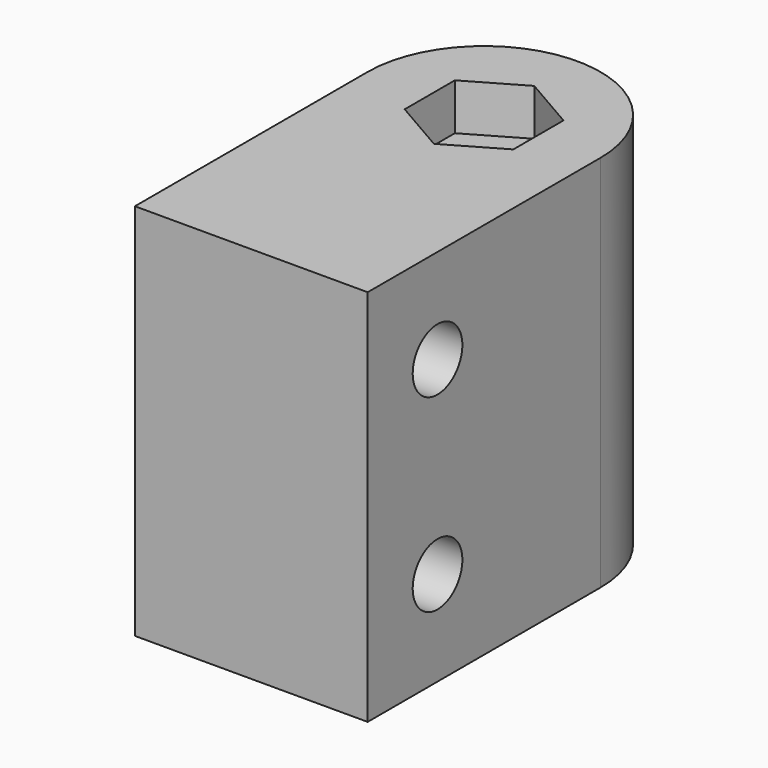
from build123d import *

# Parameters (mm, degrees)
PAD_DEPTH       = 19.5
SKETCH001_R     = 1.6
POCKET_DEPTH    = 19.501
SKETCH002_R     = 1.6
POCKET001_DEPTH = 12.001
POCKET002_DEPTH = 2.4
POCKET003_DEPTH = 2.4
POCKET004_DEPTH = 2.4


with BuildPart() as part:
    # Sketch → Pad (new body)
    with BuildSketch(Plane.XY):
        with BuildLine():
            ThreePointArc((6, 7.5), (0, 13.5), (-6, 7.5))
            Line((-6, 7.5), (-6, -7.5))
            Line((-6, -7.5), (6, -7.5))
            Line((6, -7.5), (6, 7.5))
        make_face()
    extrude(amount=PAD_DEPTH)

    # Sketch001 (on Face5 of Pad) → Pocket (cut, through all)
    with BuildSketch(Plane(origin=(0, 0, 0), x_dir=(1, 0, 0), z_dir=(0, 0, -1))):
        with Locations((0, -7.5)):
            Circle(SKETCH001_R)
    extrude(amount=-POCKET_DEPTH, mode=Mode.SUBTRACT)

    # Sketch002 (on Face3 of Pocket) → Pocket001 (cut, through all)
    with BuildSketch(Plane(origin=(-6, 0, 0), x_dir=(0, -1, 0), z_dir=(-1, 0, 0))):
        with Locations((3, 14.625)):
            Circle(SKETCH002_R)
        with Locations((3, 4.875)):
            Circle(SKETCH002_R)
    extrude(amount=-POCKET001_DEPTH, mode=Mode.SUBTRACT)

    # Sketch003 (on Face3 of Pocket001) → Pocket002 (cut)
    with BuildSketch(Plane(origin=(-6, 0, 0), x_dir=(0, -1, 0), z_dir=(-1, 0, 0))):
        Polygon((3, 17.858162), (0.2, 16.241581), (0.2, 13.008419), (3, 11.391838), (5.8, 13.008419), (5.8, 16.241581), align=None)
        Polygon((3, 8.108162), (0.2, 6.491581), (0.2, 3.258419), (3, 1.641838), (5.8, 3.258419), (5.8, 6.491581), align=None)
    extrude(amount=-POCKET002_DEPTH, mode=Mode.SUBTRACT)

    # Sketch004 (on Face4 of Pocket002) → Pocket003 (cut)
    with BuildSketch(Plane(origin=(0, 0, 0), x_dir=(1, 0, 0), z_dir=(0, 0, -1))):
        Polygon((2.8, -9.116581), (2.8, -5.883419), (0, -4.266838), (-2.8, -5.883419), (-2.8, -9.116581), (0, -10.733162), align=None)
    extrude(amount=-POCKET003_DEPTH, mode=Mode.SUBTRACT)

    # Sketch005 (on Face5 of Pocket003) → Pocket004 (cut)
    with BuildSketch(Plane.XY.offset(19.5)):
        Polygon((2.8, 9.116581), (0, 10.733162), (-2.8, 9.116581), (-2.8, 5.883419), (0, 4.266838), (2.8, 5.883419), align=None)
    extrude(amount=-POCKET004_DEPTH, mode=Mode.SUBTRACT)


solid = part.part
